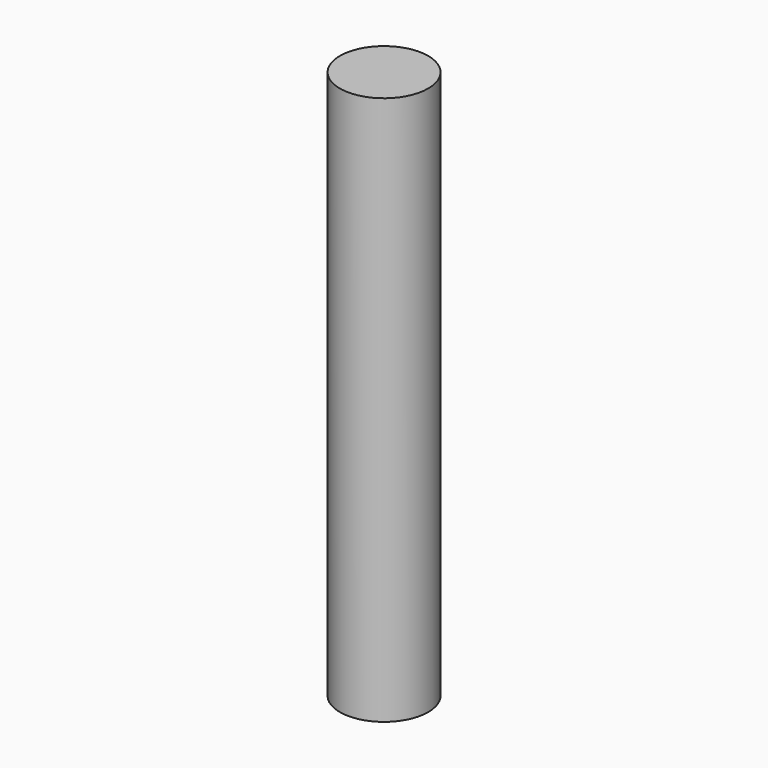
from build123d import *

# Parameters (mm, degrees)
CYLINDER_R     = 1.2065
CYLINDER_DEPTH = 15


with BuildPart() as part:
    # Cylinder → Cylinder (new body)
    with BuildSketch(Plane.XY.offset(-2.5)):
        Circle(CYLINDER_R)
    extrude(amount=CYLINDER_DEPTH)


solid = part.part
